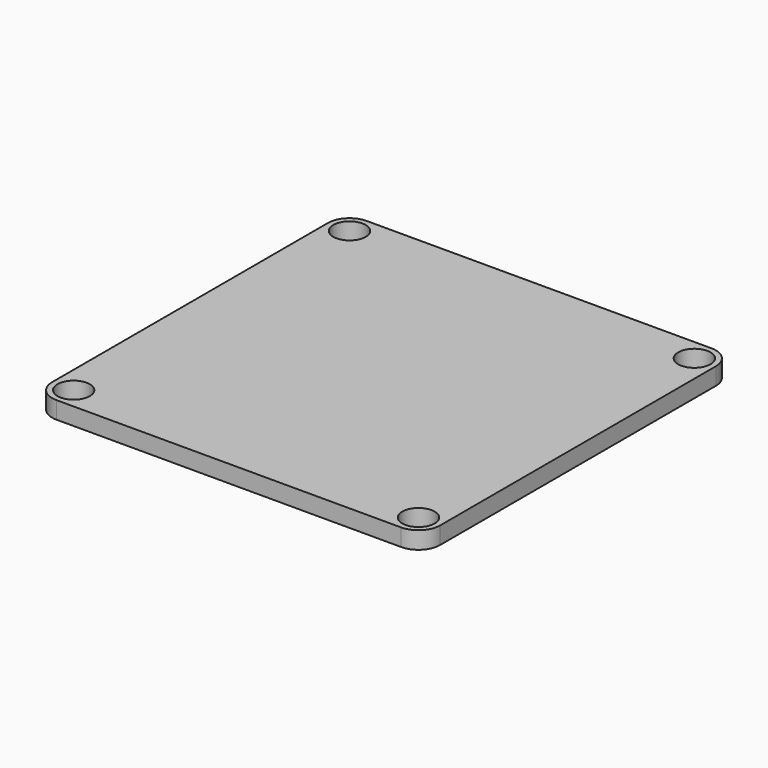
from build123d import *

# Parameters (mm, degrees)
F0_W     = 36
F0_H     = 36
F0_R     = 1.5
F1_DEPTH = 1.6
F2_R     = 2


with BuildPart() as f1:
    # F0 (on Top) → F1 (new body)
    with BuildSketch(Plane.XY):
        Rectangle(F0_W, F0_H)
        with Locations((-16, -16)):
            Circle(F0_R, mode=Mode.SUBTRACT)
        with Locations((16, -16)):
            Circle(F0_R, mode=Mode.SUBTRACT)
        with Locations((-16, 16)):
            Circle(F0_R, mode=Mode.SUBTRACT)
        with Locations((16, 16)):
            Circle(F0_R, mode=Mode.SUBTRACT)
    extrude(amount=F1_DEPTH)

    # F2
    f2_edges = [f1.edges().sort_by_distance(p)[0] for p in [
        (-18, 18, 0.8),
        (18, 18, 0.8),
        (18, -18, 0.8),
        (-18, -18, 0.8),
    ]]
    fillet(f2_edges, radius=F2_R)


solid = f1.part
